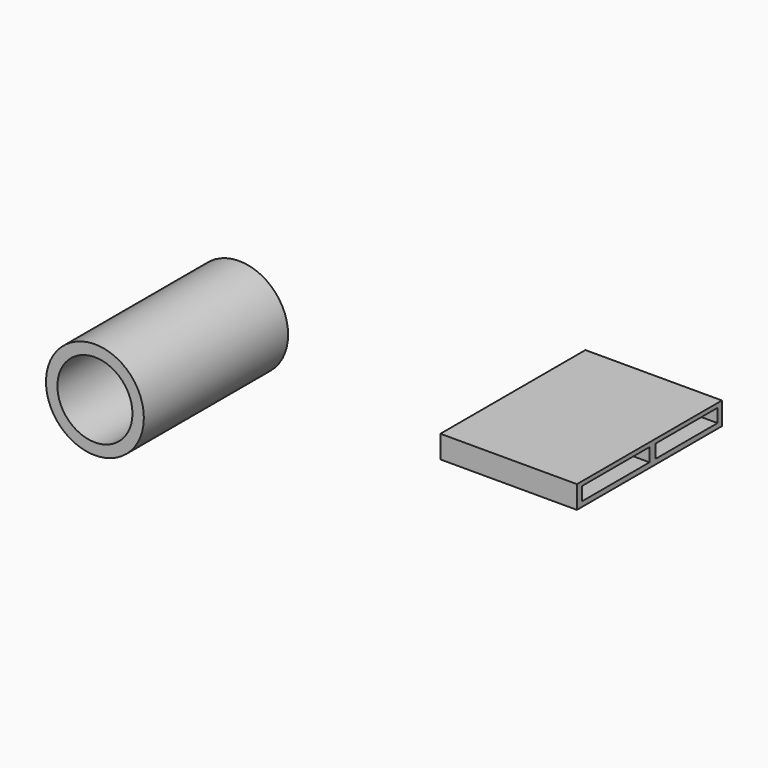
from build123d import *

# Parameters (mm, degrees)
F0_R     = 41.147135
F0_R_2   = 31.55742
F1_DEPTH = 151.638
F2_W     = 152.4
F2_H     = 19.05
F2_W_2   = 70.915563
F2_H_2   = 11.32492
F2_W_3   = 64.983465
F3_DEPTH = 114.808


with BuildPart() as f1:
    # F0 (on Front) → F1 (new body)
    with BuildSketch(Plane.XZ):
        with Locations((-215.904236, 54.040246)):
            Circle(F0_R)
        with Locations((-215.904236, 54.040246)):
            Circle(F0_R_2, mode=Mode.SUBTRACT)
    extrude(amount=F1_DEPTH)


with BuildPart() as f3:
    # F2 (on Right) → F3 (new body)
    with BuildSketch(Plane.YZ):
        with Locations((17.852321, 51.68497)):
            Rectangle(F2_W, F2_H)
        with Locations((-17.489241, 52.010879)):
            Rectangle(F2_W_2, F2_H_2, mode=Mode.SUBTRACT)
        with Locations((56.931656, 52.010879)):
            Rectangle(F2_W_3, F2_H_2, mode=Mode.SUBTRACT)
    extrude(amount=F3_DEPTH)


solid = Compound([f1.part, f3.part])
